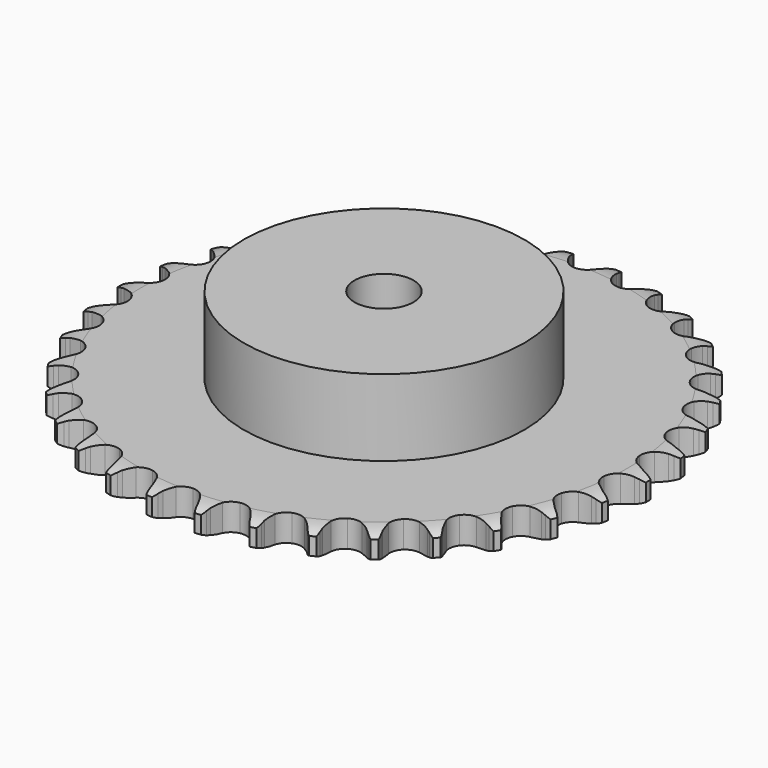
from build123d import *

# Parameters (mm, degrees)
PAD_DEPTH         = 9.1
SKETCH001_R       = 47.5
PAD001_DEPTH      = 35
SKETCH002_R       = 10
POCKET_DEPTH      = 0.001
POCKET_DEPTH_BACK = 35.001


with BuildPart() as part:
    # Sprocket → Pad (new body)
    with BuildSketch(Plane.XY):
        with BuildLine():
            ThreePointArc((-8.397927, 90.628064), (-7.241962, 89.220797), (-6.422502, 87.594409))
            Line((-6.422502, 87.594409), (-5.926845, 86.262465))
            ThreePointArc((-5.926845, 86.262465), (-5.142113, 84.540527), (-4.120459, 82.947699))
            ThreePointArc((-4.120459, 82.947699), (-2.304465, 81.427867), (0, 80.88274))
            ThreePointArc((0, 80.88274), (2.304465, 81.427867), (4.120459, 82.947699))
            ThreePointArc((4.120459, 82.947699), (5.142113, 84.540527), (5.926845, 86.262465))
            Line((5.926845, 86.262465), (6.422502, 87.594409))
            ThreePointArc((6.422502, 87.594409), (7.241962, 89.220797), (8.397927, 90.628064))
            ThreePointArc((8.397927, 90.628064), (9.275625, 89.032351), (9.782284, 87.28308))
            Line((9.782284, 87.28308), (10.024757, 85.882738))
            ThreePointArc((10.024757, 85.882738), (10.479723, 84.045925), (11.191299, 82.292489))
            ThreePointArc((11.191299, 82.292489), (12.697104, 80.464847), (14.862164, 79.505557))
            ThreePointArc((14.862164, 79.505557), (17.227559, 79.617958), (19.2919, 80.778225))
            Line((19.2919, 80.778225), (21.676616, 83.704628))
            ThreePointArc((21.676616, 83.704628), (22.026279, 84.323527), (22.408577, 84.922816))
            ThreePointArc((22.408577, 84.922816), (23.512932, 86.370937), (24.907799, 87.541834))
            ThreePointArc((24.907799, 87.541834), (25.477341, 85.812014), (25.653946, 83.99943))
            Line((25.653946, 83.99943), (25.634978, 82.578377))
            ThreePointArc((25.634978, 82.578377), (25.744684, 80.689239), (26.121952, 78.834908))
            ThreePointArc((26.121952, 78.834908), (27.266288, 76.761693), (29.218216, 75.420909))
            ThreePointArc((29.218216, 75.420909), (31.563988, 75.096756), (33.806379, 75.857945))
            Line((33.806379, 75.857945), (36.688215, 78.29633))
            ThreePointArc((36.688215, 78.29633), (37.145647, 78.840441), (37.631555, 79.359279))
            ThreePointArc((37.631555, 79.359279), (38.983198, 80.579818), (40.569466, 81.474471))
            ThreePointArc((40.569466, 81.474471), (40.811457, 79.669453), (40.651993, 77.855279))
            Line((40.651993, 77.855279), (40.372231, 76.461908))
            ThreePointArc((40.372231, 76.461908), (40.13294, 74.584778), (40.163052, 72.692697))
            ThreePointArc((40.163052, 72.692697), (40.906952, 70.444512), (42.579276, 68.767891))
            ThreePointArc((42.579276, 68.767891), (44.825544, 68.018223), (47.169622, 68.354413))
            Line((47.169622, 68.354413), (50.450442, 70.221744))
            ThreePointArc((50.450442, 70.221744), (51.000065, 70.672538), (51.573036, 71.093256))
            ThreePointArc((51.573036, 71.093256), (53.125937, 72.044649), (54.849589, 72.632594))
            ThreePointArc((54.849589, 72.632594), (54.755788, 70.813843), (54.265686, 69.059861))
            Line((54.265686, 69.059861), (53.734656, 67.741621))
            ThreePointArc((53.734656, 67.741621), (53.154518, 65.940422), (52.836448, 64.075025))
            ThreePointArc((52.836448, 64.075025), (53.154579, 61.728428), (54.490349, 59.773066))
            ThreePointArc((54.490349, 59.773066), (56.56062, 58.623411), (58.92656, 58.523154))
            Line((58.92656, 58.523154), (62.494639, 59.755841))
            ThreePointArc((62.494639, 59.755841), (63.117736, 60.097966), (63.758258, 60.406238))
            ThreePointArc((63.758258, 60.406238), (65.459537, 61.056087), (67.261874, 61.3173))
            ThreePointArc((67.261874, 61.3173), (66.835476, 59.546753), (66.031425, 57.912692))
            Line((66.031425, 57.912692), (65.267211, 56.714474))
            ThreePointArc((65.267211, 56.714474), (64.365982, 55.050544), (63.710562, 53.275354))
            ThreePointArc((63.710562, 53.275354), (63.59209, 50.910256), (64.54582, 48.74274))
            ThreePointArc((64.54582, 48.74274), (66.369591, 47.23225), (68.676824, 46.698959))
            Line((68.676824, 46.698959), (72.410656, 47.255025))
            ThreePointArc((72.410656, 47.255025), (73.086009, 47.47683), (73.77227, 47.662158))
            ThreePointArc((73.77227, 47.662158), (75.56399, 47.988332), (77.383638, 47.91392))
            ThreePointArc((77.383638, 47.91392), (76.639163, 46.25187), (75.548544, 44.793376))
            Line((75.548544, 44.793376), (74.57717, 43.755984))
            ThreePointArc((74.57717, 43.755984), (73.38554, 42.285986), (72.415089, 40.661455))
            ThreePointArc((72.415089, 40.661455), (71.864049, 38.358396), (72.403259, 36.052539))
            ThreePointArc((72.403259, 36.052539), (73.918426, 34.232651), (76.088382, 33.284488))
            Line((76.088382, 33.284488), (79.860815, 33.144995))
            ThreePointArc((79.860815, 33.144995), (80.565426, 33.238928), (81.274055, 33.295))
            ThreePointArc((81.274055, 33.295), (83.095203, 33.286393), (84.870194, 32.878888))
            ThreePointArc((84.870194, 32.878888), (83.832994, 31.381935), (82.492948, 30.148675))
            Line((82.492948, 30.148675), (81.347493, 29.307436))
            ThreePointArc((81.347493, 29.307436), (79.906041, 28.081429), (78.653607, 26.662879))
            ThreePointArc((78.653607, 26.662879), (77.688764, 24.500287), (77.795093, 22.134612))
            ThreePointArc((77.795093, 22.134612), (78.950057, 20.0673), (80.908841, 18.736552))
            Line((80.908841, 18.736552), (84.591409, 17.906252))
            ThreePointArc((84.591409, 17.906252), (85.301283, 17.869114), (86.00815, 17.794021))
            ThreePointArc((86.00815, 17.794021), (87.796708, 17.450926), (89.466597, 16.724205))
            ThreePointArc((89.466597, 16.724205), (88.171993, 15.443326), (86.628153, 14.477297))
            Line((86.628153, 14.477297), (85.347625, 13.860859))
            ThreePointArc((85.347625, 13.860859), (83.705438, 12.920593), (82.213671, 11.75633))
            ThreePointArc((82.213671, 11.75633), (80.867881, 9.807851), (80.537708, 7.462918))
            ThreePointArc((80.537708, 7.462918), (81.293139, 5.218581), (82.974047, 3.550566))
            Line((82.974047, 3.550566), (86.441345, 2.057734))
            ThreePointArc((86.441345, 2.057734), (87.132308, 1.890789), (87.813341, 1.687088))
            ThreePointArc((87.813341, 1.687088), (89.508401, 1.021188), (91.016323, 0))
            ThreePointArc((91.016323, 0), (89.508401, -1.021188), (87.813341, -1.687088))
            Line((87.813341, -1.687088), (86.441345, -2.057734))
            ThreePointArc((86.441345, -2.057734), (84.654346, -2.680238), (82.974047, -3.550566))
            ThreePointArc((82.974047, -3.550566), (81.293139, -5.218581), (80.537708, -7.462918))
            ThreePointArc((80.537708, -7.462918), (80.867881, -9.807851), (82.213671, -11.75633))
            Line((82.213671, -11.75633), (85.347625, -13.860859))
            ThreePointArc((85.347625, -13.860859), (85.996146, -14.151925), (86.628153, -14.477297))
            ThreePointArc((86.628153, -14.477297), (88.171993, -15.443326), (89.466597, -16.724205))
            ThreePointArc((89.466597, -16.724205), (87.796708, -17.450926), (86.00815, -17.794021))
            Line((86.00815, -17.794021), (84.591409, -17.906252))
            ThreePointArc((84.591409, -17.906252), (82.720453, -18.189798), (80.908841, -18.736552))
            ThreePointArc((80.908841, -18.736552), (78.950057, -20.0673), (77.795093, -22.134612))
            ThreePointArc((77.795093, -22.134612), (77.688764, -24.500287), (78.653607, -26.662879))
            Line((78.653607, -26.662879), (81.347493, -29.307436))
            ThreePointArc((81.347493, -29.307436), (81.931489, -29.712712), (82.492948, -30.148675))
            ThreePointArc((82.492948, -30.148675), (83.832994, -31.381935), (84.870194, -32.878888))
            ThreePointArc((84.870194, -32.878888), (83.095203, -33.286393), (81.274055, -33.295))
            Line((81.274055, -33.295), (79.860815, -33.144995))
            ThreePointArc((79.860815, -33.144995), (77.969613, -33.079925), (76.088382, -33.284488))
            ThreePointArc((76.088382, -33.284488), (73.918426, -34.232651), (72.403259, -36.052539))
            ThreePointArc((72.403259, -36.052539), (71.864049, -38.358396), (72.415089, -40.661455))
            Line((72.415089, -40.661455), (74.57717, -43.755984))
            ThreePointArc((74.57717, -43.755984), (75.076753, -44.261668), (75.548544, -44.793376))
            ThreePointArc((75.548544, -44.793376), (76.639163, -46.25187), (77.383638, -47.91392))
            ThreePointArc((77.383638, -47.91392), (75.56399, -47.988332), (73.77227, -47.662158))
            Line((73.77227, -47.662158), (72.410656, -47.255025))
            ThreePointArc((72.410656, -47.255025), (70.563612, -46.843555), (68.676824, -46.698959))
            ThreePointArc((68.676824, -46.698959), (66.369591, -47.23225), (64.54582, -48.74274))
            ThreePointArc((64.54582, -48.74274), (63.59209, -50.910256), (63.710562, -53.275354))
            Line((63.710562, -53.275354), (65.267211, -56.714474))
            ThreePointArc((65.267211, -56.714474), (65.665369, -57.303346), (66.031425, -57.912692))
            ThreePointArc((66.031425, -57.912692), (66.835476, -59.546753), (67.261874, -61.3173))
            ThreePointArc((67.261874, -61.3173), (65.459537, -61.056087), (63.758258, -60.406238))
            Line((63.758258, -60.406238), (62.494639, -59.755841))
            ThreePointArc((62.494639, -59.755841), (60.754652, -59.011984), (58.92656, -58.523154))
            ThreePointArc((58.92656, -58.523154), (56.56062, -58.623411), (54.490349, -59.773066))
            ThreePointArc((54.490349, -59.773066), (53.154579, -61.728428), (52.836448, -64.075025))
            Line((52.836448, -64.075025), (53.734656, -67.741621))
            ThreePointArc((53.734656, -67.741621), (54.017829, -68.393628), (54.265686, -69.059861))
            ThreePointArc((54.265686, -69.059861), (54.755788, -70.813843), (54.849589, -72.632594))
            ThreePointArc((54.849589, -72.632594), (53.125937, -72.044649), (51.573036, -71.093256))
            Line((51.573036, -71.093256), (50.450442, -70.221744))
            ThreePointArc((50.450442, -70.221744), (48.876765, -69.170831), (47.169622, -68.354413))
            ThreePointArc((47.169622, -68.354413), (44.825544, -68.018223), (42.579276, -68.767891))
            ThreePointArc((42.579276, -68.767891), (40.906952, -70.444512), (40.163052, -72.692697))
            Line((40.163052, -72.692697), (40.372231, -76.461908))
            ThreePointArc((40.372231, -76.461908), (40.530776, -77.154846), (40.651993, -77.855279))
            ThreePointArc((40.651993, -77.855279), (40.811457, -79.669453), (40.569466, -81.474471))
            ThreePointArc((40.569466, -81.474471), (38.983198, -80.579818), (37.631555, -79.359279))
            Line((37.631555, -79.359279), (36.688215, -78.29633))
            ThreePointArc((36.688215, -78.29633), (35.334438, -76.974148), (33.806379, -75.857945))
            ThreePointArc((33.806379, -75.857945), (31.563988, -75.096756), (29.218216, -75.420909))
            ThreePointArc((29.218216, -75.420909), (27.266288, -76.761693), (26.121952, -78.834908))
            Line((26.121952, -78.834908), (25.634978, -82.578377))
            ThreePointArc((25.634978, -82.578377), (25.663497, -83.288649), (25.653946, -83.99943))
            ThreePointArc((25.653946, -83.99943), (25.477341, -85.812014), (24.907799, -87.541834))
            ThreePointArc((24.907799, -87.541834), (23.512932, -86.370937), (22.408577, -84.922816))
            Line((22.408577, -84.922816), (21.676616, -83.704628))
            ThreePointArc((21.676616, -83.704628), (20.58884, -82.156203), (19.2919, -80.778225))
            ThreePointArc((19.2919, -80.778225), (17.227559, -79.617958), (14.862164, -79.505557))
            ThreePointArc((14.862164, -79.505557), (12.697104, -80.464847), (11.191299, -82.292489))
            Line((11.191299, -82.292489), (10.024757, -85.882738))
            ThreePointArc((10.024757, -85.882738), (9.922278, -86.586157), (9.782284, -87.28308))
            ThreePointArc((9.782284, -87.28308), (9.275625, -89.032351), (8.397927, -90.628064))
            ThreePointArc((8.397927, -90.628064), (7.241962, -89.220797), (6.422502, -87.594409))
            Line((6.422502, -87.594409), (5.926845, -86.262465))
            ThreePointArc((5.926845, -86.262465), (5.142113, -84.540527), (4.120459, -82.947699))
            ThreePointArc((4.120459, -82.947699), (2.304465, -81.427867), (0, -80.88274))
            ThreePointArc((0, -80.88274), (-2.304465, -81.427867), (-4.120459, -82.947699))
            Line((-4.120459, -82.947699), (-5.926845, -86.262465))
            ThreePointArc((-5.926845, -86.262465), (-6.156832, -86.935077), (-6.422502, -87.594409))
            ThreePointArc((-6.422502, -87.594409), (-7.241962, -89.220797), (-8.397927, -90.628064))
            ThreePointArc((-8.397927, -90.628064), (-9.275625, -89.032351), (-9.782284, -87.28308))
            Line((-9.782284, -87.28308), (-10.024757, -85.882738))
            ThreePointArc((-10.024757, -85.882738), (-10.479723, -84.045925), (-11.191299, -82.292489))
            ThreePointArc((-11.191299, -82.292489), (-12.697104, -80.464847), (-14.862164, -79.505557))
            ThreePointArc((-14.862164, -79.505557), (-17.227559, -79.617958), (-19.2919, -80.778225))
            Line((-19.2919, -80.778225), (-21.676616, -83.704628))
            ThreePointArc((-21.676616, -83.704628), (-22.026279, -84.323527), (-22.408577, -84.922816))
            ThreePointArc((-22.408577, -84.922816), (-23.512932, -86.370937), (-24.907799, -87.541834))
            ThreePointArc((-24.907799, -87.541834), (-25.477341, -85.812014), (-25.653946, -83.99943))
            Line((-25.653946, -83.99943), (-25.634978, -82.578377))
            ThreePointArc((-25.634978, -82.578377), (-25.744684, -80.689239), (-26.121952, -78.834908))
            ThreePointArc((-26.121952, -78.834908), (-27.266288, -76.761693), (-29.218216, -75.420909))
            ThreePointArc((-29.218216, -75.420909), (-31.563988, -75.096756), (-33.806379, -75.857945))
            Line((-33.806379, -75.857945), (-36.688215, -78.29633))
            ThreePointArc((-36.688215, -78.29633), (-37.145647, -78.840441), (-37.631555, -79.359279))
            ThreePointArc((-37.631555, -79.359279), (-38.983198, -80.579818), (-40.569466, -81.474471))
            ThreePointArc((-40.569466, -81.474471), (-40.811457, -79.669453), (-40.651993, -77.855279))
            Line((-40.651993, -77.855279), (-40.372231, -76.461908))
            ThreePointArc((-40.372231, -76.461908), (-40.13294, -74.584778), (-40.163052, -72.692697))
            ThreePointArc((-40.163052, -72.692697), (-40.906952, -70.444512), (-42.579276, -68.767891))
            ThreePointArc((-42.579276, -68.767891), (-44.825544, -68.018223), (-47.169622, -68.354413))
            Line((-47.169622, -68.354413), (-50.450442, -70.221744))
            ThreePointArc((-50.450442, -70.221744), (-51.000065, -70.672538), (-51.573036, -71.093256))
            ThreePointArc((-51.573036, -71.093256), (-53.125937, -72.044649), (-54.849589, -72.632594))
            ThreePointArc((-54.849589, -72.632594), (-54.755788, -70.813843), (-54.265686, -69.059861))
            Line((-54.265686, -69.059861), (-53.734656, -67.741621))
            ThreePointArc((-53.734656, -67.741621), (-53.154518, -65.940422), (-52.836448, -64.075025))
            ThreePointArc((-52.836448, -64.075025), (-53.154579, -61.728428), (-54.490349, -59.773066))
            ThreePointArc((-54.490349, -59.773066), (-56.56062, -58.623411), (-58.92656, -58.523154))
            Line((-58.92656, -58.523154), (-62.494639, -59.755841))
            ThreePointArc((-62.494639, -59.755841), (-63.117736, -60.097966), (-63.758258, -60.406238))
            ThreePointArc((-63.758258, -60.406238), (-65.459537, -61.056087), (-67.261874, -61.3173))
            ThreePointArc((-67.261874, -61.3173), (-66.835476, -59.546753), (-66.031425, -57.912692))
            Line((-66.031425, -57.912692), (-65.267211, -56.714474))
            ThreePointArc((-65.267211, -56.714474), (-64.365982, -55.050544), (-63.710562, -53.275354))
            ThreePointArc((-63.710562, -53.275354), (-63.59209, -50.910256), (-64.54582, -48.74274))
            ThreePointArc((-64.54582, -48.74274), (-66.369591, -47.23225), (-68.676824, -46.698959))
            Line((-68.676824, -46.698959), (-72.410656, -47.255025))
            ThreePointArc((-72.410656, -47.255025), (-73.086009, -47.47683), (-73.77227, -47.662158))
            ThreePointArc((-73.77227, -47.662158), (-75.56399, -47.988332), (-77.383638, -47.91392))
            ThreePointArc((-77.383638, -47.91392), (-76.639163, -46.25187), (-75.548544, -44.793376))
            Line((-75.548544, -44.793376), (-74.57717, -43.755984))
            ThreePointArc((-74.57717, -43.755984), (-73.38554, -42.285986), (-72.415089, -40.661455))
            ThreePointArc((-72.415089, -40.661455), (-71.864049, -38.358396), (-72.403259, -36.052539))
            ThreePointArc((-72.403259, -36.052539), (-73.918426, -34.232651), (-76.088382, -33.284488))
            Line((-76.088382, -33.284488), (-79.860815, -33.144995))
            ThreePointArc((-79.860815, -33.144995), (-80.565426, -33.238928), (-81.274055, -33.295))
            ThreePointArc((-81.274055, -33.295), (-83.095203, -33.286393), (-84.870194, -32.878888))
            ThreePointArc((-84.870194, -32.878888), (-83.832994, -31.381935), (-82.492948, -30.148675))
            Line((-82.492948, -30.148675), (-81.347493, -29.307436))
            ThreePointArc((-81.347493, -29.307436), (-79.906041, -28.081429), (-78.653607, -26.662879))
            ThreePointArc((-78.653607, -26.662879), (-77.688764, -24.500287), (-77.795093, -22.134612))
            ThreePointArc((-77.795093, -22.134612), (-78.950057, -20.0673), (-80.908841, -18.736552))
            Line((-80.908841, -18.736552), (-84.591409, -17.906252))
            ThreePointArc((-84.591409, -17.906252), (-85.301283, -17.869114), (-86.00815, -17.794021))
            ThreePointArc((-86.00815, -17.794021), (-87.796708, -17.450926), (-89.466597, -16.724205))
            ThreePointArc((-89.466597, -16.724205), (-88.171993, -15.443326), (-86.628153, -14.477297))
            Line((-86.628153, -14.477297), (-85.347625, -13.860859))
            ThreePointArc((-85.347625, -13.860859), (-83.705438, -12.920593), (-82.213671, -11.75633))
            ThreePointArc((-82.213671, -11.75633), (-80.867881, -9.807851), (-80.537708, -7.462918))
            ThreePointArc((-80.537708, -7.462918), (-81.293139, -5.218581), (-82.974047, -3.550566))
            Line((-82.974047, -3.550566), (-86.441345, -2.057734))
            ThreePointArc((-86.441345, -2.057734), (-87.132308, -1.890789), (-87.813341, -1.687088))
            ThreePointArc((-87.813341, -1.687088), (-89.508401, -1.021188), (-91.016323, 0))
            ThreePointArc((-91.016323, 0), (-89.508401, 1.021188), (-87.813341, 1.687088))
            Line((-87.813341, 1.687088), (-86.441345, 2.057734))
            ThreePointArc((-86.441345, 2.057734), (-84.654346, 2.680238), (-82.974047, 3.550566))
            ThreePointArc((-82.974047, 3.550566), (-81.293139, 5.218581), (-80.537708, 7.462918))
            ThreePointArc((-80.537708, 7.462918), (-80.867881, 9.807851), (-82.213671, 11.75633))
            Line((-82.213671, 11.75633), (-85.347625, 13.860859))
            ThreePointArc((-85.347625, 13.860859), (-85.996146, 14.151925), (-86.628153, 14.477297))
            ThreePointArc((-86.628153, 14.477297), (-88.171993, 15.443326), (-89.466597, 16.724205))
            ThreePointArc((-89.466597, 16.724205), (-87.796708, 17.450926), (-86.00815, 17.794021))
            Line((-86.00815, 17.794021), (-84.591409, 17.906252))
            ThreePointArc((-84.591409, 17.906252), (-82.720453, 18.189798), (-80.908841, 18.736552))
            ThreePointArc((-80.908841, 18.736552), (-78.950057, 20.0673), (-77.795093, 22.134612))
            ThreePointArc((-77.795093, 22.134612), (-77.688764, 24.500287), (-78.653607, 26.662879))
            Line((-78.653607, 26.662879), (-81.347493, 29.307436))
            ThreePointArc((-81.347493, 29.307436), (-81.931489, 29.712712), (-82.492948, 30.148675))
            ThreePointArc((-82.492948, 30.148675), (-83.832994, 31.381935), (-84.870194, 32.878888))
            ThreePointArc((-84.870194, 32.878888), (-83.095203, 33.286393), (-81.274055, 33.295))
            Line((-81.274055, 33.295), (-79.860815, 33.144995))
            ThreePointArc((-79.860815, 33.144995), (-77.969613, 33.079925), (-76.088382, 33.284488))
            ThreePointArc((-76.088382, 33.284488), (-73.918426, 34.232651), (-72.403259, 36.052539))
            ThreePointArc((-72.403259, 36.052539), (-71.864049, 38.358396), (-72.415089, 40.661455))
            Line((-72.415089, 40.661455), (-74.57717, 43.755984))
            ThreePointArc((-74.57717, 43.755984), (-75.076753, 44.261668), (-75.548544, 44.793376))
            ThreePointArc((-75.548544, 44.793376), (-76.639163, 46.25187), (-77.383638, 47.91392))
            ThreePointArc((-77.383638, 47.91392), (-75.56399, 47.988332), (-73.77227, 47.662158))
            Line((-73.77227, 47.662158), (-72.410656, 47.255025))
            ThreePointArc((-72.410656, 47.255025), (-70.563612, 46.843555), (-68.676824, 46.698959))
            ThreePointArc((-68.676824, 46.698959), (-66.369591, 47.23225), (-64.54582, 48.74274))
            ThreePointArc((-64.54582, 48.74274), (-63.59209, 50.910256), (-63.710562, 53.275354))
            Line((-63.710562, 53.275354), (-65.267211, 56.714474))
            ThreePointArc((-65.267211, 56.714474), (-65.665369, 57.303346), (-66.031425, 57.912692))
            ThreePointArc((-66.031425, 57.912692), (-66.835476, 59.546753), (-67.261874, 61.3173))
            ThreePointArc((-67.261874, 61.3173), (-65.459537, 61.056087), (-63.758258, 60.406238))
            Line((-63.758258, 60.406238), (-62.494639, 59.755841))
            ThreePointArc((-62.494639, 59.755841), (-60.754652, 59.011984), (-58.92656, 58.523154))
            ThreePointArc((-58.92656, 58.523154), (-56.56062, 58.623411), (-54.490349, 59.773066))
            ThreePointArc((-54.490349, 59.773066), (-53.154579, 61.728428), (-52.836448, 64.075025))
            Line((-52.836448, 64.075025), (-53.734656, 67.741621))
            ThreePointArc((-53.734656, 67.741621), (-54.017829, 68.393628), (-54.265686, 69.059861))
            ThreePointArc((-54.265686, 69.059861), (-54.755788, 70.813843), (-54.849589, 72.632594))
            ThreePointArc((-54.849589, 72.632594), (-53.125937, 72.044649), (-51.573036, 71.093256))
            Line((-51.573036, 71.093256), (-50.450442, 70.221744))
            ThreePointArc((-50.450442, 70.221744), (-48.876765, 69.170831), (-47.169622, 68.354413))
            ThreePointArc((-47.169622, 68.354413), (-44.825544, 68.018223), (-42.579276, 68.767891))
            ThreePointArc((-42.579276, 68.767891), (-40.906952, 70.444512), (-40.163052, 72.692697))
            Line((-40.163052, 72.692697), (-40.372231, 76.461908))
            ThreePointArc((-40.372231, 76.461908), (-40.530776, 77.154846), (-40.651993, 77.855279))
            ThreePointArc((-40.651993, 77.855279), (-40.811457, 79.669453), (-40.569466, 81.474471))
            ThreePointArc((-40.569466, 81.474471), (-38.983198, 80.579818), (-37.631555, 79.359279))
            Line((-37.631555, 79.359279), (-36.688215, 78.29633))
            ThreePointArc((-36.688215, 78.29633), (-35.334438, 76.974148), (-33.806379, 75.857945))
            ThreePointArc((-33.806379, 75.857945), (-31.563988, 75.096756), (-29.218216, 75.420909))
            ThreePointArc((-29.218216, 75.420909), (-27.266288, 76.761693), (-26.121952, 78.834908))
            Line((-26.121952, 78.834908), (-25.634978, 82.578377))
            ThreePointArc((-25.634978, 82.578377), (-25.663497, 83.288649), (-25.653946, 83.99943))
            ThreePointArc((-25.653946, 83.99943), (-25.477341, 85.812014), (-24.907799, 87.541834))
            ThreePointArc((-24.907799, 87.541834), (-23.512932, 86.370937), (-22.408577, 84.922816))
            Line((-22.408577, 84.922816), (-21.676616, 83.704628))
            ThreePointArc((-21.676616, 83.704628), (-20.58884, 82.156203), (-19.2919, 80.778225))
            ThreePointArc((-19.2919, 80.778225), (-17.227559, 79.617958), (-14.862164, 79.505557))
            ThreePointArc((-14.862164, 79.505557), (-12.697104, 80.464847), (-11.191299, 82.292489))
            Line((-11.191299, 82.292489), (-10.024757, 85.882738))
            ThreePointArc((-10.024757, 85.882738), (-9.922278, 86.586157), (-9.782284, 87.28308))
            ThreePointArc((-9.782284, 87.28308), (-9.275625, 89.032351), (-8.397927, 90.628064))
        make_face()
    extrude(amount=PAD_DEPTH)

    # Sketch → Groove (revolve, cut)
    with BuildSketch(Plane.XZ):
        with BuildLine():
            Line((82.525762, 0), (89.5, 0))
            Line((96.474238, 0), (89.5, 0))
            Line((96.474238, 9.1), (96.474238, 0))
            Line((89.5, 9.1), (96.474238, 9.1))
            Line((82.525762, 9.1), (89.5, 9.1))
            ThreePointArc((89.5, 7.5), (86.10347, 8.694871), (82.525762, 9.1))
            Line((89.5, 1.6), (89.5, 7.5))
            ThreePointArc((82.525762, 0), (86.10347, 0.405129), (89.5, 1.6))
        make_face()
    revolve(axis=Axis((0, 0, 0), (0, 0, 1)), mode=Mode.SUBTRACT)

    # Sketch001 → Pad001 (join)
    with BuildSketch(Plane.XY):
        Circle(SKETCH001_R)
    extrude(amount=PAD001_DEPTH)

    # Sketch002 → Pocket (cut, two sides)
    with BuildSketch(Plane.XY) as pocket_sk:
        Circle(SKETCH002_R)
    extrude(amount=-POCKET_DEPTH, mode=Mode.SUBTRACT)
    extrude(pocket_sk.sketch, amount=POCKET_DEPTH_BACK, mode=Mode.SUBTRACT)


solid = part.part
